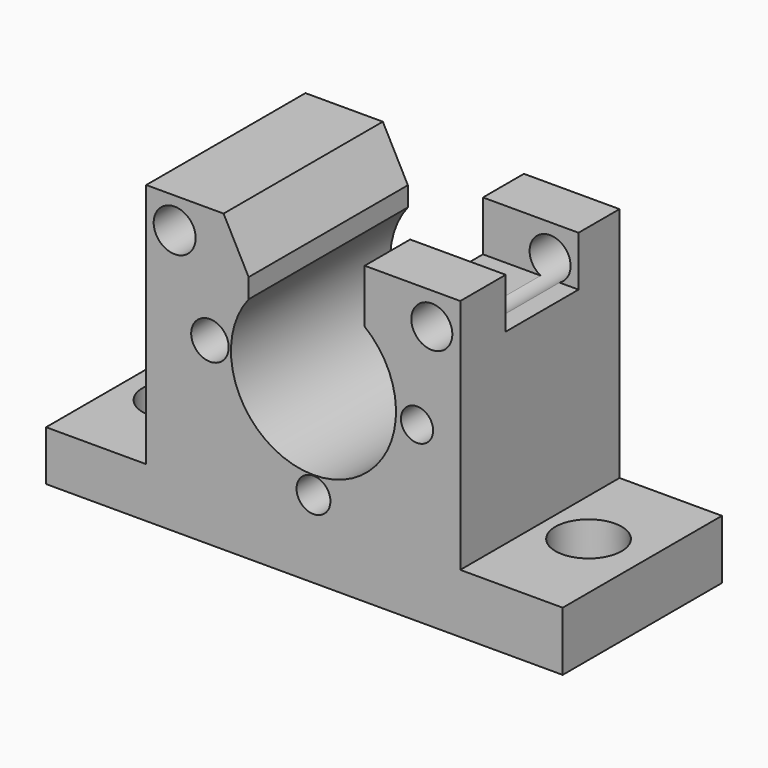
from build123d import *

# Parameters (mm, degrees)
F0_W       = 12.7783659846
F0_H       = 6.3891834579
F0_W_2     = 13.0687858909
F0_H_2     = 7.5508533046
F1_DEPTH   = 25.4
F2_R       = 10.532388255
F3_DEPTH   = 25.4
F4_R       = 2.0535610712
F4_R_2     = 2.1586830731
F4_R_3     = 2.3948426669
F5_DEPTH   = 25.4
F6_R       = 4.2285410778
F6_R_2     = 4.1581451927
F1_FACE2_W = 65.9247562289
F1_FACE2_H = 25.4
F7_DEPTH   = 7.5518533046
F8_R       = 2.677519439
F8_R_2     = 2.6177858958
F9_DEPTH   = 25.4
F10_W      = 11.6166961379
F10_H      = 11.0358633101
F11_DEPTH  = 12.1975312941


with BuildPart() as f1:
    # F0 (on Front) → F1 (new body)
    with BuildSketch(Plane.XZ):
        with Locations((-27.7348635718, 3.194591729)):
            Rectangle(F0_W, F0_H)
        Polygon((-21.3456805795, 6.3891834579), (-21.3456805795, 0), (0, 0), (18.7319237739, 0), (18.7319237739, 7.5508533046), (18.7319237739, 37.7542637289), (6.5343924798, 37.7542637289), (6.5343924798, 28.0633459114), (-8.2768974826, 28.0633459114), (-8.2768974826, 31.655497849), (-11.4714885131, 37.7542637289), (-21.3456805795, 37.7542637289), (-21.3456805795, 14.8112885654), align=None)
        with Locations((25.2663167194, 3.7754266523)):
            Rectangle(F0_W_2, F0_H_2)
    extrude(amount=F1_DEPTH)

    # F2 (on face) → F3 (cut, through all)
    with BuildSketch(Plane.XZ.offset(25.4)):
        with Locations((0, 22.6525589824)):
            Circle(F2_R)
    extrude(amount=-F3_DEPTH, mode=Mode.SUBTRACT)

    # F4 (on face) → F5 (cut, through all)
    with BuildSketch(Plane.XZ.offset(25.4)):
        with Locations((13.2139939815, 22.0717247576)):
            Circle(F4_R)
        with Locations((0, 9.8741920665)):
            Circle(F4_R_2)
        with Locations((-13.2139930502, 22.9429770261)):
            Circle(F4_R_3)
    extrude(amount=-F5_DEPTH, mode=Mode.SUBTRACT)

    # F6 (on face) + F1_face2 (on face) → F7 (cut, through all)
    with BuildSketch(Plane.XY.offset(7.5508533046)):
        with Locations((24.54027161, -12.1975317597)):
            Circle(F6_R)
        with Locations((-27.7348645031, -12.7783669159)):
            Circle(F6_R_2)
    with BuildSketch(Plane(origin=(-1.1616684496, -12.7, 0), x_dir=(1, 0, 0), z_dir=(0, 0, -1))):
        Rectangle(F1_FACE2_W, F1_FACE2_H)
    extrude(amount=-F7_DEPTH, dir=(0, 0, 1), mode=Mode.SUBTRACT)

    # F8 (on face) → F9 (cut, through all)
    with BuildSketch(Plane.XZ.offset(25.4)):
        with Locations((-17.7154634148, 33.833630383)):
            Circle(F8_R)
        with Locations((15.1017084718, 33.6884185672)):
            Circle(F8_R_2)
    extrude(amount=-F9_DEPTH, mode=Mode.SUBTRACT)

    # F10 (on face) → F11 (cut, through all)
    with BuildSketch(Plane.YZ.offset(18.7319237739)):
        with Locations((-12.3427396175, 36.8830133229)):
            Rectangle(F10_W, F10_H)
    extrude(amount=-F11_DEPTH, mode=Mode.SUBTRACT)


solid = f1.part
